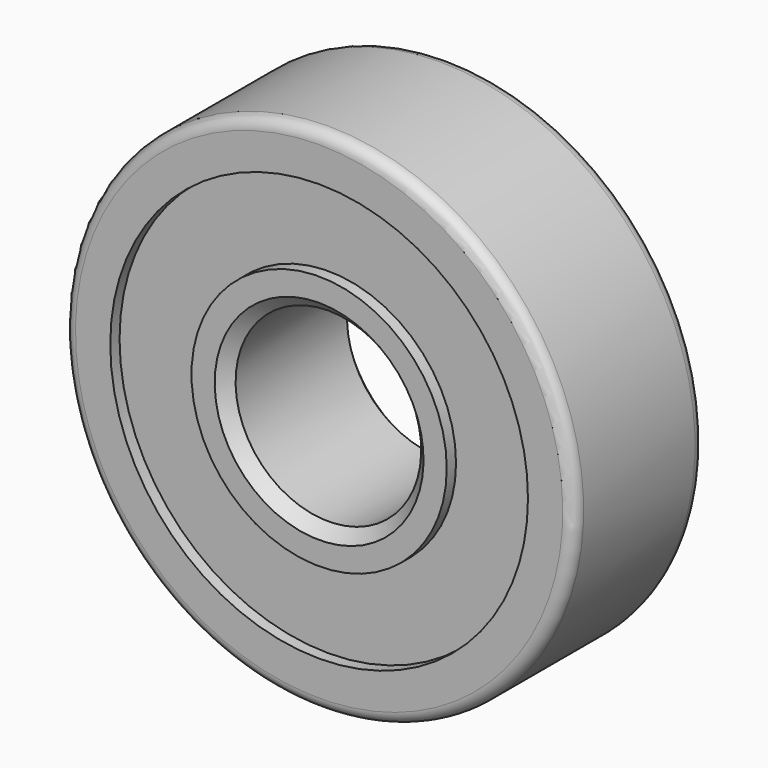
from build123d import *

# Parameters (mm, degrees)
F2_SIZE  = 0.5
F5_R     = 9
F5_R_2   = 5.5
F6_DEPTH = 2
F7_R     = 9
F7_R_2   = 5.5
F8_DEPTH = 2


with BuildPart() as f1:
    # F0 (on Right) → F1 (revolve)
    with BuildSketch(Plane.YZ):
        with BuildLine():
            Line((-3.5, 10.5), (-3.5, 4))
            Line((-3.5, 4), (3.5, 4))
            Line((3.5, 4), (3.5, 10.5))
            ThreePointArc((3.5, 10.5), (3.353553, 10.853553), (3, 11))
            Line((3, 11), (-3, 11))
            ThreePointArc((-3, 11), (-3.353553, 10.853553), (-3.5, 10.5))
        make_face()
    revolve(axis=Axis((0, 1.946479, 0), (0, 1, 0)))

    # F2
    f2_edges = [f1.edges().sort_by_distance(p)[0] for p in [
        (0, 3.5, -4),
        (0, -3.5, -4),
    ]]
    chamfer(f2_edges, length=F2_SIZE)

    # F5 (on offset) → F6 (cut)
    with BuildSketch(Plane.XZ.offset(-5)):
        Circle(F5_R)
        Circle(F5_R_2, mode=Mode.SUBTRACT)
    extrude(amount=F6_DEPTH, mode=Mode.SUBTRACT)

    # F7 (on offset) → F8 (cut)
    with BuildSketch(Plane.XZ.offset(5)):
        Circle(F7_R)
        Circle(F7_R_2, mode=Mode.SUBTRACT)
    extrude(amount=-F8_DEPTH, mode=Mode.SUBTRACT)


solid = f1.part
